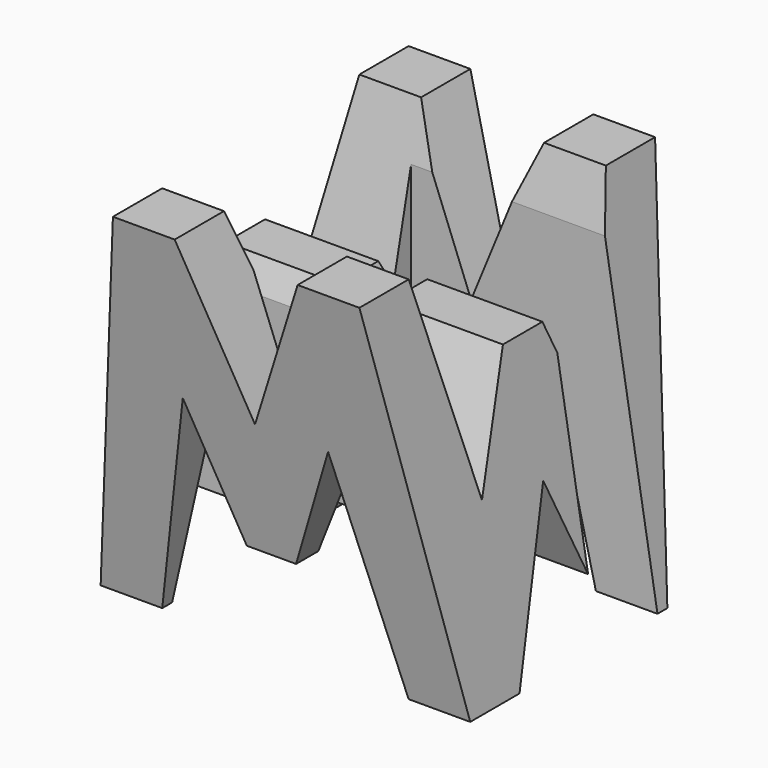
from build123d import *

# Parameters (mm, degrees)
F0_W      = 38.1
F0_H      = 38.1
F1_DEPTH  = 38.1
F5_DEPTH  = 50.8
F7_DEPTH  = 127
F9_DEPTH  = 50.8
F10_W     = 25.4
F10_H     = 7.62
F11_DEPTH = 50.8


with BuildPart() as f1:
    # F0 (on Front) → F1 (new body)
    with BuildSketch(Plane.XZ):
        with Locations((19.05, 19.05)):
            Rectangle(F0_W, F0_H)
    extrude(amount=F1_DEPTH)

    # F4 (on face) → F5 (cut)
    with BuildSketch(Plane.YZ.offset(38.1)):
        Polygon((-11.4268120378, 38.1), (-31.75, 38.1), (-26.67, 17.145), (-21.59, 28.575), (-16.51, 28.575), (-11.4268120378, 15.875), (-6.3468120378, 38.1), align=None)
        Polygon((-38.1, 0), (-31.75, 0), (-38.1, 38.1), align=None)
        Polygon((-19.05, 15.875), (-25.4, 0), (-12.7, 0), align=None)
        Polygon((0, 38.1), (-6.35, 0), (0, 0), align=None)
    extrude(amount=-F5_DEPTH, mode=Mode.SUBTRACT)

    # F6 (on offset) → F7 (cut)
    with BuildSketch(Plane.XZ.offset(38.1)):
        Polygon((11.43, 22.225), (6.35, 0), (11.43, 0), (26.67, 0), (31.75, 0), (26.4095281363, 22.225), (21.4223176855, 9.558487687), (18.8823176855, 9.558487687), (16.3423176855, 9.558487687), align=None)
        Polygon((18.8823176855, 38.1), (12.7131294711, 38.1), (18.8823176855, 22.258487687), align=None)
        Polygon((25.3863393215, 38.1), (18.8823176855, 38.1), (18.8823176855, 22.258487687), align=None)
        Polygon((31.7556646041, 38.1), (38.1, 0), (38.1, 38.1), align=None)
        Polygon((0, 38.1), (0, 0), (6.3445118444, 38.1), align=None)
    extrude(amount=-F7_DEPTH, mode=Mode.SUBTRACT)

    # F8 (on offset) → F9 (cut)
    with BuildSketch(Plane.XY.offset(38.1)):
        Polygon((12.7, -22.86), (0, -22.86), (0, -30.48), (12.7, -30.48), (25.4, -30.48), (25.4, -22.86), align=None)
    extrude(amount=-F9_DEPTH, mode=Mode.SUBTRACT)

    # F10 (on offset) → F11 (cut)
    with BuildSketch(Plane.XY.offset(38.1)):
        with Locations((25.4, -11.43)):
            Rectangle(F10_W, F10_H)
    extrude(amount=-F11_DEPTH, mode=Mode.SUBTRACT)


solid = f1.part
